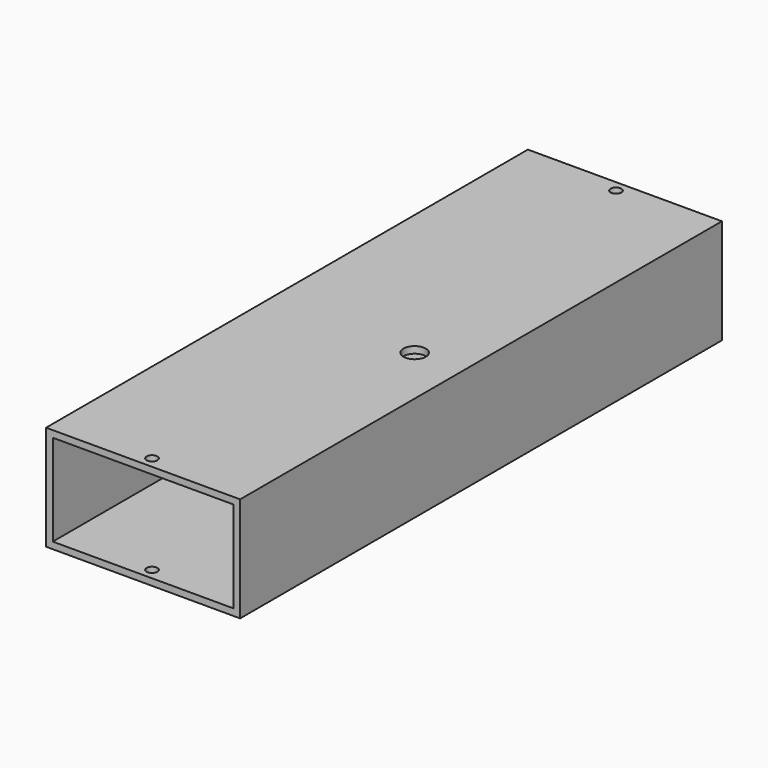
from build123d import *

# Parameters (mm, degrees)
F0_W     = 43.5
F0_H     = 23.5
F0_W_2   = 40.5
F0_H_2   = 20.5
F1_DEPTH = 135
F2_R     = 2.5
F3_DEPTH = 1.5
F4_R     = 1.2
F5_DEPTH = 25


with BuildPart() as f1:
    # F0 (on Front) → F1 (new body)
    with BuildSketch(Plane.XZ):
        Rectangle(F0_W, F0_H)
        Rectangle(F0_W_2, F0_H_2, mode=Mode.SUBTRACT)
    extrude(amount=F1_DEPTH)

    # F2 (on face) → F3 (cut, through all)
    with BuildSketch(Plane.XY.offset(11.75)):
        with Locations((10.875, -72.5)):
            Circle(F2_R)
    extrude(amount=-F3_DEPTH, mode=Mode.SUBTRACT)

    # F4 (on face) → F5 (cut)
    with BuildSketch(Plane.XY.offset(11.75)):
        with Locations((0, -132.5)):
            Circle(F4_R)
        with Locations((0, -2.5)):
            Circle(F4_R)
    extrude(amount=-F5_DEPTH, mode=Mode.SUBTRACT)


solid = f1.part
